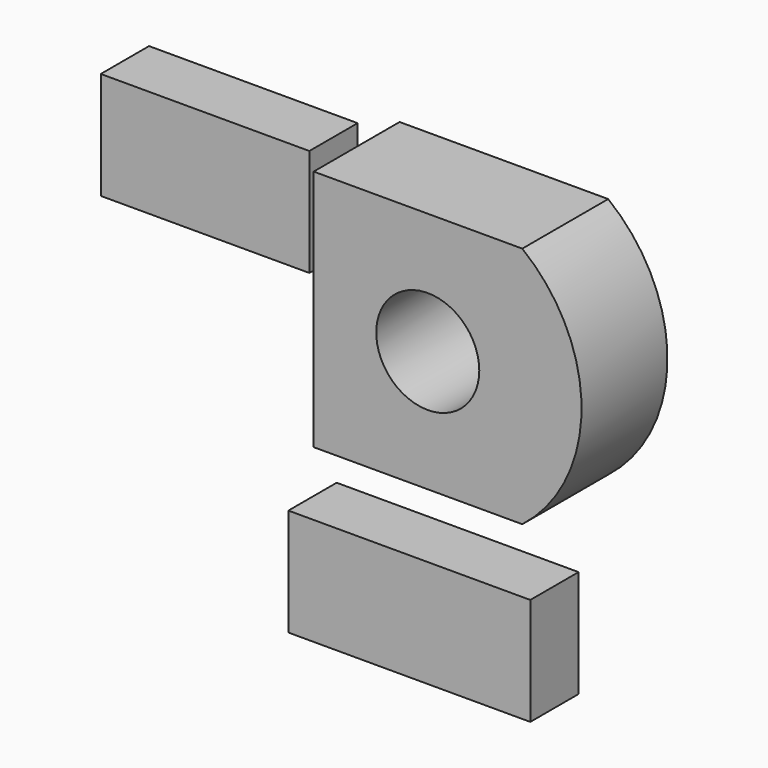
from build123d import *

# Parameters (mm, degrees)
F2_R     = 21.693269
F3_DEPTH = 45.212
F1_W     = 87.826267
F1_H     = 45.212337
F4_DEPTH = 25.4
F0_W     = 101.857689
F0_H     = 45.212336
F5_DEPTH = 25.4


with BuildPart() as f3:
    # F2 (on Front) → F3 (new body)
    with BuildSketch(Plane.XZ):
        with BuildLine():
            Line((-126.583278, 65.273397), (-126.583278, -36.883458))
            Line((-126.583278, -36.883458), (-38.757015, -36.883458))
            ThreePointArc((-38.757015, -36.883458), (-13.802886, 14.194969), (-38.757015, 65.273397))
            Line((-38.757015, 65.273397), (-126.583278, 65.273397))
        make_face()
        with Locations((-78.555984, 14.194969)):
            Circle(F2_R, mode=Mode.SUBTRACT)
    extrude(amount=F3_DEPTH)


with BuildPart() as f4:
    # F1 (on Front) → F4 (new body)
    with BuildSketch(Plane.XZ):
        with Locations((-188.165597, 36.493818)):
            Rectangle(F1_W, F1_H)
    extrude(amount=F4_DEPTH)


with BuildPart() as f5:
    # F0 (on Front) → F5 (new body)
    with BuildSketch(Plane.XZ):
        with Locations((-102.15822, -99.662874)):
            Rectangle(F0_W, F0_H)
    extrude(amount=F5_DEPTH)


solid = Compound([f3.part, f4.part, f5.part])
